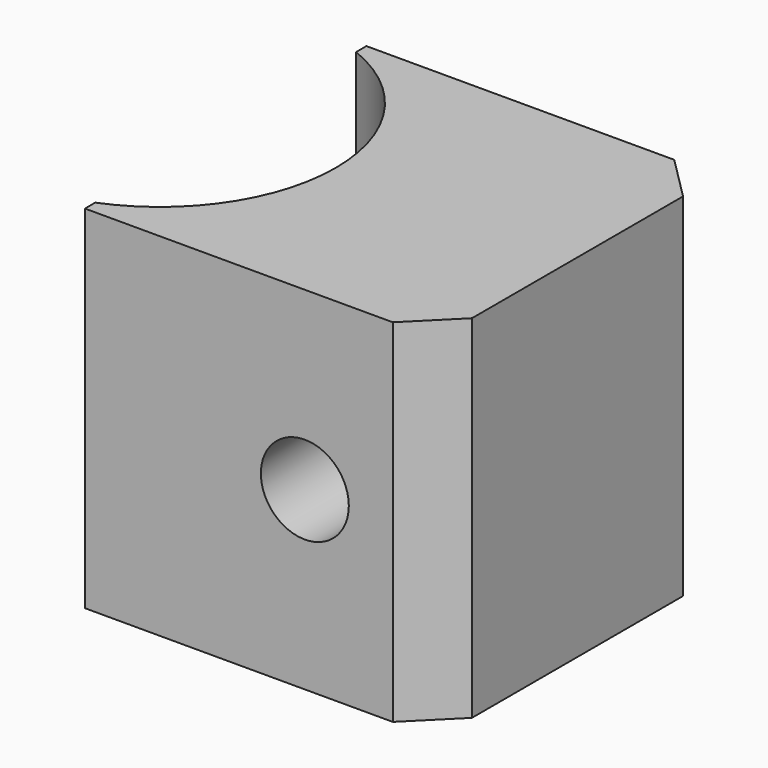
from build123d import *

# Parameters (mm, degrees)
F0_W     = 50.8
F0_H     = 50.8
F1_DEPTH = 25.4
F3_DEPTH = 50.8
F4_SIZE  = 6.35
F5_R     = 6.35
F6_DEPTH = 50.801


with BuildPart() as f1:
    # F0 (on Front) → F1 (new body, symmetric)
    with BuildSketch(Plane.XZ):
        Rectangle(F0_W, F0_H)
    extrude(amount=F1_DEPTH, both=True)

    # F2 (on face) → F3 (cut)
    with BuildSketch(Plane.XY.offset(25.4)):
        with BuildLine():
            ThreePointArc((-25.4, -23.5464301965), (-13.8644325812, -14.1990316571), (-9.525, 0))
            ThreePointArc((-9.525, 0), (-13.8644325812, 14.1990316571), (-25.4, 23.5464301965))
            Line((-25.4, 23.5464301965), (-25.4, -23.5464301965))
        make_face()
    extrude(amount=-F3_DEPTH, mode=Mode.SUBTRACT)

    # F4
    f4_edges = [f1.edges().sort_by_distance(p)[0] for p in [
        (25.4, -25.4, 0),
        (25.4, 25.4, 0),
    ]]
    chamfer(f4_edges, length=F4_SIZE)

    # F5 (on face) → F6 (cut, through all)
    with BuildSketch(Plane.XZ.offset(25.4)):
        with Locations((6.35, 0)):
            Circle(F5_R)
    extrude(amount=-F6_DEPTH, mode=Mode.SUBTRACT)


solid = f1.part
